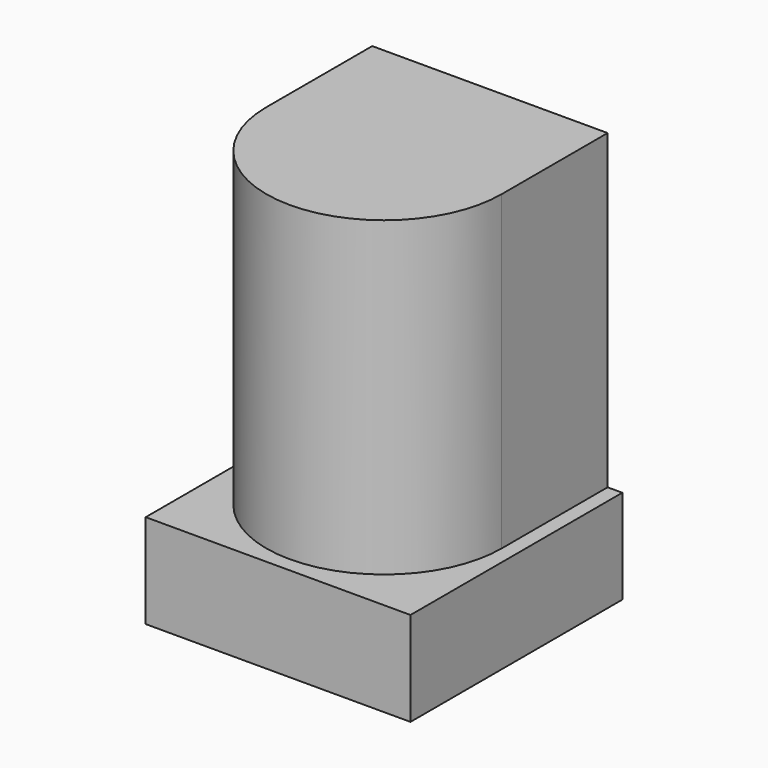
from build123d import *

# Parameters (mm, degrees)
CYLINDER265_R     = 0.5
CYLINDER265_DEPTH = 13.5
FILLET221_R       = 0.25
CYLINDER264_R     = 3
CYLINDER264_DEPTH = 12.8
CYLINDER263_R     = 4
CYLINDER263_DEPTH = 13.8
BOX299_W          = 8
BOX299_H          = 4.5
BOX299_DEPTH      = 13.8
BOX298_W          = 9
BOX298_H          = 9
BOX298_DEPTH      = 3.2


with BuildPart() as fillet221:
    # Cylinder265 → Cylinder265 (new body)
    with BuildSketch(Plane.XY):
        Circle(CYLINDER265_R)
    extrude(amount=CYLINDER265_DEPTH)

    # Fillet221
    fillet221_edges = [fillet221.edges().sort_by_distance(p)[0] for p in [
        (-0.5, 0, 0),
    ]]
    fillet(fillet221_edges, radius=FILLET221_R)


with BuildPart() as fillet221_1:
    # Fillet221 placement: moved
    add(fillet221.part.moved(Location((4.5, 4.5, 0))))


with BuildPart() as cilindro264:
    # Cylinder264 → Cylinder264 (new body)
    with BuildSketch(Plane(origin=(4.5, 4.5, 0), x_dir=(1, 0, 0), z_dir=(0, 0, 1))):
        Circle(CYLINDER264_R)
    extrude(amount=CYLINDER264_DEPTH)


with BuildPart() as cilindro263:
    # Cylinder263 → Cylinder263 (new body)
    with BuildSketch(Plane(origin=(4.5, 4.5, 0), x_dir=(1, 0, 0), z_dir=(0, 0, 1))):
        Circle(CYLINDER263_R)
    extrude(amount=CYLINDER263_DEPTH)


with BuildPart() as cubo284:
    # Box299 → Box299 (new body)
    with BuildSketch(Plane(origin=(0.5, 4.5, 0), x_dir=(1, 0, 0), z_dir=(0, 0, 1))):
        with Locations((4, 2.25)):
            Rectangle(BOX299_W, BOX299_H)
    extrude(amount=BOX299_DEPTH)


with BuildPart() as conector_vcc:
    # Box298 → Box298 (new body)
    with BuildSketch(Plane.XY):
        with Locations((4.5, 4.5)):
            Rectangle(BOX298_W, BOX298_H)
    extrude(amount=BOX298_DEPTH)

    # Fusion202: union Cilindro263, Cubo284
    add(cilindro263.part)
    add(cubo284.part)

    # Cut346: cut Cilindro264
    add(cilindro264.part, mode=Mode.SUBTRACT)

    # Fusion203: union Fillet221
    add(fillet221_1.part)


with BuildPart() as conector_vcc_1:
    # Fusion203 placement: moved
    add(conector_vcc.part.moved(Location((-1, -27, 3))))


solid = conector_vcc_1.part
